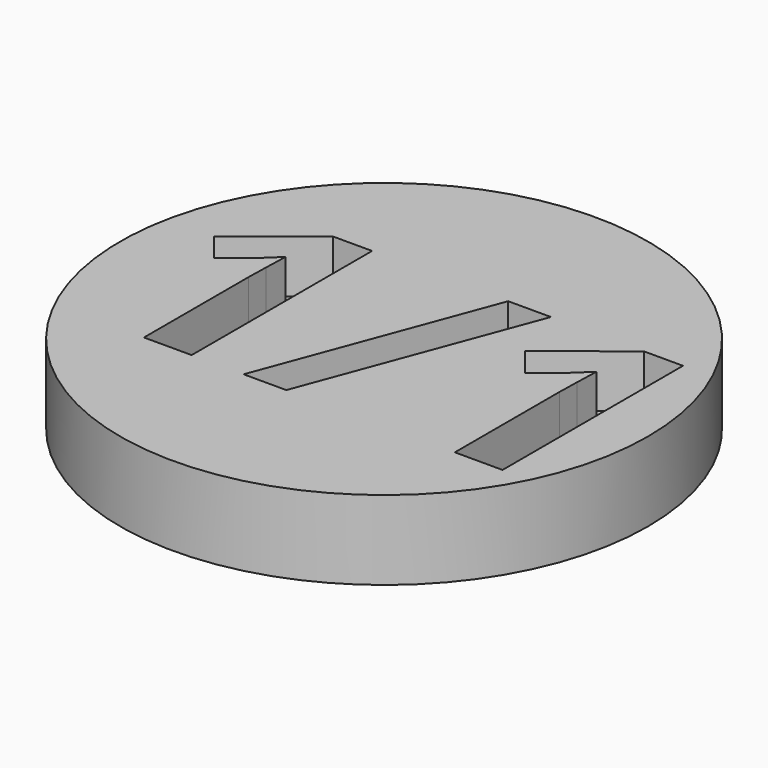
from build123d import *

# Parameters (mm, degrees)
F0_R     = 10
F1_DEPTH = 3
F2_R     = 10
F3_DEPTH = 1


with BuildPart() as f1:
    # F0 (on Top) → F1 (new body)
    with BuildSketch(Plane.XY):
        Circle(F0_R)
        Polygon((-8.746378839, -4.3623333385), (-8.746378839, 4.2567346393), (8.753621161, 4.2567346393), (8.753621161, -4.3623333385), (7.9773813149, -4.3623333385), (6.1705194081, -4.3623333385), (-0.2133519044, -4.3623333385), (-1.8312976077, -4.3623333385), (-3.8008893136, -4.3623333385), (-5.6077512204, -4.3623333385), align=None, mode=Mode.SUBTRACT)
        with BuildLine():
            Line((8.753621161, 4.2567346393), (-8.746378839, 4.2567346393))
            Line((-8.746378839, 4.2567346393), (-8.746378839, -4.3623333385))
            Line((-8.746378839, -4.3623333385), (-5.6077512204, -4.3623333385))
            Line((-5.6077512204, -4.3623333385), (-5.6077512204, 0.5831561869))
            Line((-5.6077512204, 0.5831561869), (-5.5890466458, 1.3949347248))
            Line((-5.5890466458, 1.3949347248), (-5.5609897839, 2.2834020185))
            add(Edge.make_bspline(
                [(-5.5609897839, 2.2834020185), (-6.0098995744, 1.834492228), (-6.1857225757, 1.6942079184)],
                knots=[0, 0, 0, 1, 1, 1], degree=2))
            Line((-6.1857225757, 1.6942079184), (-7.1677127424, 0.9048748701))
            Line((-7.1677127424, 0.9048748701), (-8.039345919, 1.9916106547))
            Line((-8.039345919, 1.9916106547), (-5.2860325372, 4.1837867983))
            Line((-5.2860325372, 4.1837867983), (-3.8008893136, 4.1837867983))
            Line((-3.8008893136, 4.1837867983), (-3.8008893136, -4.3623333385))
            Line((-3.8008893136, -4.3623333385), (-1.8312976077, -4.3623333385))
            Line((-1.8312976077, -4.3623333385), (1.3540914474, 4.1837867983))
            Line((1.3540914474, 4.1837867983), (2.9739076082, 4.1837867983))
            Line((2.9739076082, 4.1837867983), (-0.2133519044, -4.3623333385))
            Line((-0.2133519044, -4.3623333385), (6.1705194081, -4.3623333385))
            Line((6.1705194081, -4.3623333385), (6.1705194081, 0.5831561869))
            Line((6.1705194081, 0.5831561869), (6.1892239827, 1.3949347248))
            Line((6.1892239827, 1.3949347248), (6.2172808446, 2.2834020185))
            add(Edge.make_bspline(
                [(6.2172808446, 2.2834020185), (5.7683710541, 1.834492228), (5.5925480528, 1.6942079184)],
                knots=[0, 0, 0, 1, 1, 1], degree=2))
            Line((5.5925480528, 1.6942079184), (4.6105578861, 0.9048748701))
            Line((4.6105578861, 0.9048748701), (3.7389247095, 1.9916106547))
            Line((3.7389247095, 1.9916106547), (6.4922380913, 4.1837867983))
            Line((6.4922380913, 4.1837867983), (7.9773813149, 4.1837867983))
            Line((7.9773813149, 4.1837867983), (7.9773813149, -4.3623333385))
            Line((7.9773813149, -4.3623333385), (8.753621161, -4.3623333385))
            Line((8.753621161, -4.3623333385), (8.753621161, 4.2567346393))
        make_face()
    extrude(amount=F1_DEPTH)

    # F2 (on Top) → F3 (join)
    with BuildSketch(Plane.XY):
        Circle(F2_R)
    extrude(amount=F3_DEPTH)


solid = f1.part
